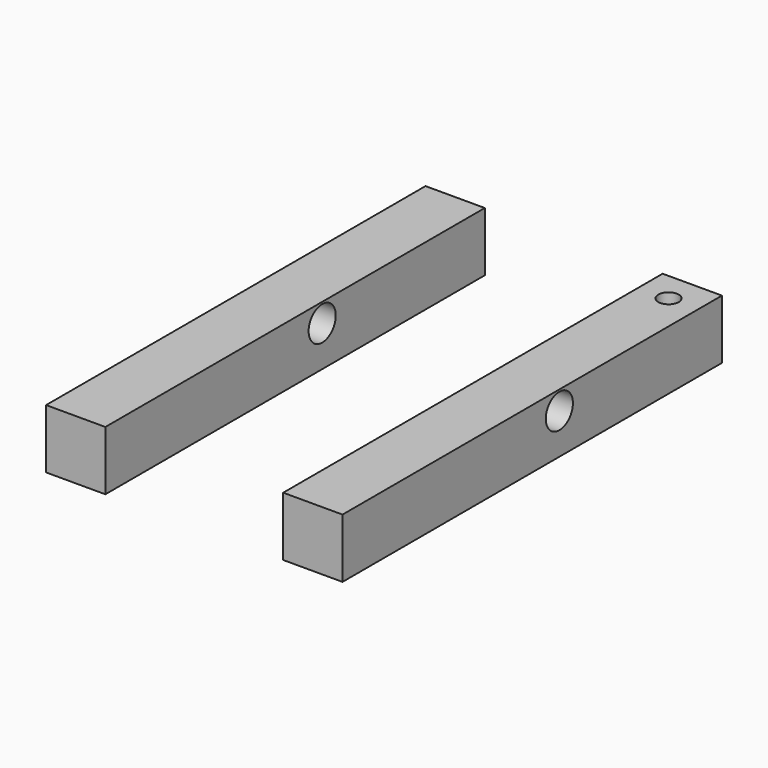
from build123d import *

# Parameters (mm, degrees)
F0_W     = 6.35
F0_H     = 6.35
F1_DEPTH = 50.8
F2_R     = 1.8161
F3_DEPTH = 6.35
F5_R     = 1.594614
F6_DEPTH = 6.35
F7_R     = 118.519935
F7_R_2   = 1.0922
F8_DEPTH = 25.4


with BuildPart() as f1:
    # F0 (on Front) → F1 (new body)
    with BuildSketch(Plane.XZ):
        with Locations((3.175, 3.175)):
            Rectangle(F0_W, F0_H)
    extrude(amount=F1_DEPTH)

    # F2 (on face) → F3 (cut, through all)
    with BuildSketch(Plane(origin=(0, 0, 0), x_dir=(0, -1, 0), z_dir=(-1, 0, 0))):
        with Locations((21.7678, 4.318)):
            Circle(F2_R)
    extrude(amount=-F3_DEPTH, mode=Mode.SUBTRACT)


with BuildPart() as f4_1:
    # F4: copy of F1
    add(f1.part.moved(Location((25.4, 0, 0))))

    # F5 (on face) → F6 (cut)
    with BuildSketch(Plane(origin=(0, 0, 0), x_dir=(-1, 0, 0), z_dir=(0, 1, 0))):
        with Locations((-28.575, 3.175)):
            Circle(F5_R)
    extrude(amount=-F6_DEPTH, mode=Mode.SUBTRACT)

    # F7 (on face) → F8 (cut)
    with BuildSketch(Plane(origin=(0, 0, 0), x_dir=(1, 0, 0), z_dir=(0, 0, -1))):
        with Locations((-40.215876, -233.822033)):
            Circle(F7_R)
        with Locations((28.575, 3.175)):
            Circle(F7_R_2)
    extrude(amount=-F8_DEPTH, mode=Mode.SUBTRACT)


solid = Compound([f1.part, f4_1.part])
